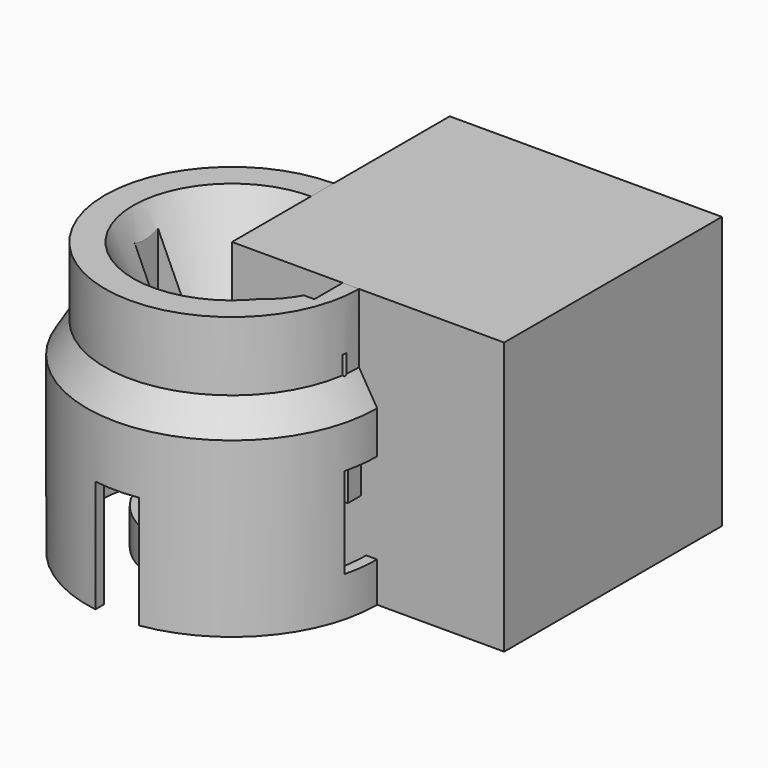
from build123d import *

# Parameters (mm, degrees)
CYLINDER001_R          = 2
CYLINDER001_DEPTH      = 60
BOX001_W               = 64.5
BOX001_H               = 20.5
BOX001_DEPTH           = 25
BOX002_W               = 10
BOX002_H               = 10
BOX002_DEPTH           = 60
BOX002_PLACEMENT_ANGLE = 45
CYLINDER003_R          = 0.9
CYLINDER003_DEPTH      = 30
CYLINDER004_R          = 0.9
CYLINDER004_DEPTH      = 30
CYLINDER005_R          = 0.9
CYLINDER005_DEPTH      = 30
CYLINDER002_R          = 0.9
CYLINDER002_DEPTH      = 30
BOX006_W               = 12
BOX006_H               = 101
BOX006_DEPTH           = 50
TUBE001_R              = 42
TUBE001_R_2            = 35
TUBE001_DEPTH          = 42
CHAMFER_SIZE2          = 10
CHAMFER_SIZE           = 6
BOX010_W               = 20
BOX010_H               = 8
BOX010_DEPTH           = 60
CYLINDER007_R          = 21
CYLINDER007_DEPTH      = 60
BOX_W                  = 41.5
BOX_H                  = 20.5
BOX_DEPTH              = 51
TUBE_R                 = 40
TUBE_R_2               = 37
TUBE_DEPTH             = 31
CYLINDER_R             = 40
CYLINDER_DEPTH         = 44
BOX003_W               = 50
BOX003_H               = 2
BOX003_DEPTH           = 25
BOX004_W               = 10
BOX004_H               = 10
BOX004_DEPTH           = 10
CYLINDER006_R          = 22
CYLINDER006_DEPTH      = 10
BOX009_W               = 75
BOX009_H               = 75
BOX009_DEPTH           = 75
BOX011_W               = 9.5
BOX011_H               = 9.5
BOX011_DEPTH           = 9.5
BOX012_W               = 12
BOX012_H               = 12
BOX012_DEPTH           = 12


with BuildPart() as obj1:
    # Cylinder001 → Cylinder001 (new body)
    with BuildSketch(Plane.XY.offset(-47)):
        Circle(CYLINDER001_R)
    extrude(amount=CYLINDER001_DEPTH)


with BuildPart() as cube001:
    # Box001 → Box001 (new body)
    with BuildSketch(Plane(origin=(-19.5, -9.75, -20), x_dir=(1, 0, 0), z_dir=(0, 0, 1))):
        with Locations((32.25, 10.25)):
            Rectangle(BOX001_W, BOX001_H)
    extrude(amount=BOX001_DEPTH)


with BuildPart() as obj2:
    # Box002 → Box002 (new body)
    with BuildSketch(Plane.XY):
        with Locations((5, 5)):
            Rectangle(BOX002_W, BOX002_H)
    extrude(amount=BOX002_DEPTH)


with BuildPart() as obj2_1:
    # Box002 placement: moved
    add(obj2.part.moved(Location((-10.292893, -6.535534, 0))).rotate(Axis((-10.292893, -6.535534, 0), (0, 0, 1)), BOX002_PLACEMENT_ANGLE))


with BuildPart() as cylinder003:
    # Cylinder003 → Cylinder003 (new body)
    with BuildSketch(Plane(origin=(-15, -5, 0), x_dir=(1, 0, 0), z_dir=(0, 0, 1))):
        Circle(CYLINDER003_R)
    extrude(amount=CYLINDER003_DEPTH)


with BuildPart() as cylinder004:
    # Cylinder004 → Cylinder004 (new body)
    with BuildSketch(Plane(origin=(34, -4.5, 0), x_dir=(1, 0, 0), z_dir=(0, 0, 1))):
        Circle(CYLINDER004_R)
    extrude(amount=CYLINDER004_DEPTH)


with BuildPart() as cylinder005:
    # Cylinder005 → Cylinder005 (new body)
    with BuildSketch(Plane(origin=(34, 5.5, 0), x_dir=(1, 0, 0), z_dir=(0, 0, 1))):
        Circle(CYLINDER005_R)
    extrude(amount=CYLINDER005_DEPTH)


with BuildPart() as cylinder:
    # Cylinder002 → Cylinder002 (new body)
    with BuildSketch(Plane(origin=(-15, 6, 0), x_dir=(1, 0, 0), z_dir=(0, 0, 1))):
        Circle(CYLINDER002_R)
    extrude(amount=CYLINDER002_DEPTH)


with BuildPart() as cube005:
    # Box006 → Box006 (new body)
    with BuildSketch(Plane(origin=(-6, -43, -50), x_dir=(1, 0, 0), z_dir=(0, 0, 1))):
        with Locations((6, 50.5)):
            Rectangle(BOX006_W, BOX006_H)
    extrude(amount=BOX006_DEPTH)


with BuildPart() as cone:
    # Cone → Cone (revolve)
    with BuildSketch(Plane(origin=(0, 0, 12), x_dir=(1, 0, 0), z_dir=(0, -1, 0))):
        Polygon((0, 0), (13, 0), (33, 45), (0, 45), align=None)
    revolve(axis=Axis((0, 0, 12), (0, 0, 1)))


with BuildPart() as chamfer_body:
    # Tube001 → Tube001 (new body)
    with BuildSketch(Plane.XY.offset(15)):
        Circle(TUBE001_R)
        Circle(TUBE001_R_2, mode=Mode.SUBTRACT)
    extrude(amount=TUBE001_DEPTH)

    # Chamfer
    chamfer_edges = [chamfer_body.edges().sort_by_distance(p)[0] for p in [
        (-35, 0, 15),
    ]]
    chamfer_side = chamfer_body.faces().sort_by_distance((-40.812061, 0, 15))[0]
    chamfer(chamfer_edges, length=CHAMFER_SIZE, length2=CHAMFER_SIZE2, reference=chamfer_side)


with BuildPart() as obj3:
    # Box010 → Box010 (new body)
    with BuildSketch(Plane(origin=(-24, -3.5, 0), x_dir=(1, 0, 0), z_dir=(0, 0, 1))):
        with Locations((10, 4)):
            Rectangle(BOX010_W, BOX010_H)
    extrude(amount=BOX010_DEPTH)


with BuildPart() as cylinder007:
    # Cylinder007 → Cylinder007 (new body)
    with BuildSketch(Plane(origin=(9, 0, 0), x_dir=(1, 0, 0), z_dir=(0, 0, 1))):
        Circle(CYLINDER007_R)
    extrude(amount=CYLINDER007_DEPTH)


with BuildPart() as fusion:
    # Box → Box (new body)
    with BuildSketch(Plane(origin=(-11, -9.75, 0), x_dir=(1, 0, 0), z_dir=(0, 0, 1))):
        with Locations((20.75, 10.25)):
            Rectangle(BOX_W, BOX_H)
    extrude(amount=BOX_DEPTH)

    # Fusion: union Cube001, obj2, Cylinder003, Cylinder004, Cylinder005, Cylinder, Cube005, Cone, Chamfer body, obj3, Cylinder007
    add(cube001.part)
    add(obj2_1.part)
    add(cylinder003.part)
    add(cylinder004.part)
    add(cylinder005.part)
    add(cylinder.part)
    add(cube005.part)
    add(cone.part)
    add(chamfer_body.part)
    add(obj3.part)
    add(cylinder007.part)


with BuildPart() as tube:
    # Tube → Tube (new body)
    with BuildSketch(Plane.XY.offset(-31)):
        Circle(TUBE_R)
        Circle(TUBE_R_2, mode=Mode.SUBTRACT)
    extrude(amount=TUBE_DEPTH)


with BuildPart() as cut:
    # Cylinder → Cylinder (new body)
    with BuildSketch(Plane.XY):
        Circle(CYLINDER_R)
    extrude(amount=CYLINDER_DEPTH)

    # Fusion001: union Tube
    add(tube.part)

    # Cut: cut Fusion
    add(fusion.part, mode=Mode.SUBTRACT)


with BuildPart() as cube002:
    # Box003 → Box003 (new body)
    with BuildSketch(Plane(origin=(-19, -1, -20), x_dir=(1, 0, 0), z_dir=(0, 0, 1))):
        with Locations((25, 1)):
            Rectangle(BOX003_W, BOX003_H)
    extrude(amount=BOX003_DEPTH)


with BuildPart() as cube003:
    # Box004 → Box004 (new body)
    with BuildSketch(Plane.XY.offset(-30)):
        with Locations((5, 5)):
            Rectangle(BOX004_W, BOX004_H)
    extrude(amount=BOX004_DEPTH)


with BuildPart() as cylinder006:
    # Cylinder006 → Cylinder006 (new body)
    with BuildSketch(Plane.XY.offset(-30)):
        Circle(CYLINDER006_R)
    extrude(amount=CYLINDER006_DEPTH)


with BuildPart() as cube006:
    # Box009 → Box009 (new body)
    with BuildSketch(Plane.XY.offset(-31)):
        with Locations((37.5, 37.5)):
            Rectangle(BOX009_W, BOX009_H)
    extrude(amount=BOX009_DEPTH)


with BuildPart() as cube007:
    # Box011 → Box011 (new body)
    with BuildSketch(Plane(origin=(26, -4.5, -6), x_dir=(1, 0, 0), z_dir=(0, 0, 1))):
        with Locations((4.75, 4.75)):
            Rectangle(BOX011_W, BOX011_H)
    extrude(amount=BOX011_DEPTH)


with BuildPart() as cube008:
    # Box012 → Box012 (new body)
    with BuildSketch(Plane(origin=(-27.5, -5.5, -6), x_dir=(1, 0, 0), z_dir=(0, 0, 1))):
        with Locations((6, 6)):
            Rectangle(BOX012_W, BOX012_H)
    extrude(amount=BOX012_DEPTH)


solid = Compound([obj1.part, cut.part, cube002.part, cube003.part, cylinder006.part, cube006.part, cube007.part, cube008.part])
